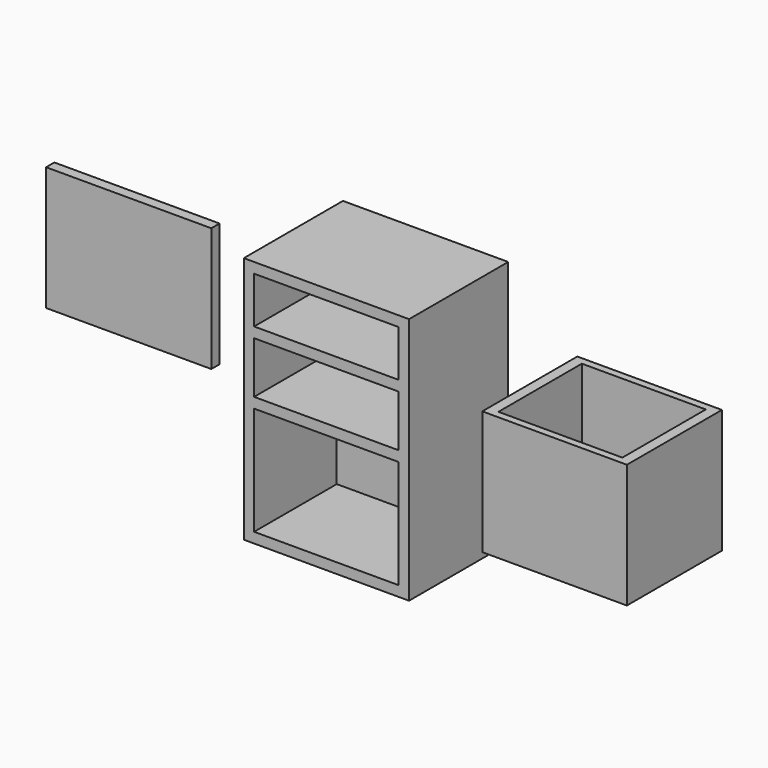
from build123d import *

# Parameters (mm, degrees)
F0_W     = 101.6
F0_H     = 76.2
F1_DEPTH = 76.2
F2_W     = 88.9
F2_H     = 28.575
F2_W_2   = 44.45
F2_H_2   = 6.35
F3_DEPTH = 50.8
F4_DEPTH = 25.4
F2_W_3   = 101.6
F2_H_3   = 76.2
F5_DEPTH = 6.35
F2_W_4   = 38.1
F2_H_4   = 31.75
F2_W_5   = 6.35
F6_DEPTH = 36.5125
F7_DEPTH = 32.0675


with BuildPart() as f1:
    # F0 (on Top) → F1 (new body, symmetric)
    with BuildSketch(Plane.XY):
        Rectangle(F0_W, F0_H)
    extrude(amount=F1_DEPTH, both=True)

    # F2 (on Front) → F3 (cut)
    with BuildSketch(Plane.XZ):
        with Locations((0, 55.5625)):
            Rectangle(F2_W, F2_H)
        Polygon((0, -44.45), (-44.45, -44.45), (-44.45, -69.85), (44.45, -69.85), (44.45, -44.45), align=None)
        Polygon((-44.45, 3.175), (0, 3.175), (0, 19.05), (0, 34.925), (-44.45, 34.925), align=None)
        Polygon((0, 19.05), (0, 3.175), (44.45, 3.175), (44.45, 34.925), (0, 34.925), align=None)
        Polygon((44.45, -3.175), (-44.45, -3.175), (-44.45, -31.75), (0, -31.75), (44.45, -31.75), align=None)
        with Locations((22.225, -41.275)):
            Rectangle(F2_W_2, F2_H_2)
        with Locations((-22.225, -41.275)):
            Rectangle(F2_W_2, F2_H_2)
        with Locations((-22.225, -34.925)):
            Rectangle(F2_W_2, F2_H_2)
        with Locations((22.225, -34.925)):
            Rectangle(F2_W_2, F2_H_2)
    extrude(amount=F3_DEPTH, mode=Mode.SUBTRACT)

    # F4 (cut): faces of the model
    f4_faces = [f1.faces().sort_by_distance(p)[0] for p in [
        (0, 0, 55.5625),
        (0, 0, 19.05),
        (0, 0, -36.5125),
    ]]
    extrude(f4_faces, amount=-F4_DEPTH, mode=Mode.SUBTRACT)


with BuildPart() as f5:
    # F2 (on Front) → F5 (new body)
    with BuildSketch(Plane.XZ):
        with Locations((-146.9496594191, 26.6050021112)):
            Rectangle(F2_W_3, F2_H_3)
    extrude(amount=F5_DEPTH)


with BuildPart() as f6:
    # F2 (on Front) → F6 (new body, symmetric)
    with BuildSketch(Plane.XZ):
        Polygon((94.5624826312, 33.5501439989), (94.5624826312, -29.9498560011), (100.9124826312, -29.9498560011), (100.9124826312, 1.8001439989), (100.9124826312, 33.5501439989), align=None)
        with Locations((119.9624826312, 17.6751439989)):
            Rectangle(F2_W_4, F2_H_4)
        with Locations((158.0624826312, 17.6751439989)):
            Rectangle(F2_W_4, F2_H_4)
        Polygon((100.9124826312, 1.8001439989), (100.9124826312, -29.9498560011), (177.1124826312, -29.9498560011), (177.1124826312, 1.8001439989), (139.0124826312, 1.8001439989), align=None)
        Polygon((177.1124826312, -29.9498560011), (183.4624826312, -29.9498560011), (183.4624826312, 33.5501439989), (177.1124826312, 33.5501439989), (177.1124826312, 1.8001439989), align=None)
        with Locations((180.2874826312, 36.7251439989)):
            Rectangle(F2_W_5, F2_H_2)
        with Locations((158.0624826312, 36.7251439989)):
            Rectangle(F2_W_4, F2_H_2)
        with Locations((119.9624826312, 36.7251439989)):
            Rectangle(F2_W_4, F2_H_2)
        with Locations((97.7374826312, 36.7251439989)):
            Rectangle(F2_W_5, F2_H_2)
        with Locations((97.7374826312, -33.1248560011)):
            Rectangle(F2_W_5, F2_H_2)
        Polygon((100.9124826312, -29.9498560011), (100.9124826312, -36.2998560011), (183.4624826312, -36.2998560011), (183.4624826312, -29.9498560011), (177.1124826312, -29.9498560011), align=None)
    extrude(amount=F6_DEPTH, both=True)

    # F2 (on Front) → F7 (cut, symmetric)
    with BuildSketch(Plane.XZ):
        with Locations((119.9624826312, 36.7251439989)):
            Rectangle(F2_W_4, F2_H_2)
        with Locations((158.0624826312, 36.7251439989)):
            Rectangle(F2_W_4, F2_H_2)
        with Locations((158.0624826312, 17.6751439989)):
            Rectangle(F2_W_4, F2_H_4)
        with Locations((119.9624826312, 17.6751439989)):
            Rectangle(F2_W_4, F2_H_4)
        Polygon((100.9124826312, 1.8001439989), (100.9124826312, -29.9498560011), (177.1124826312, -29.9498560011), (177.1124826312, 1.8001439989), (139.0124826312, 1.8001439989), align=None)
    extrude(amount=F7_DEPTH, both=True, mode=Mode.SUBTRACT)


solid = Compound([f1.part, f5.part, f6.part])
